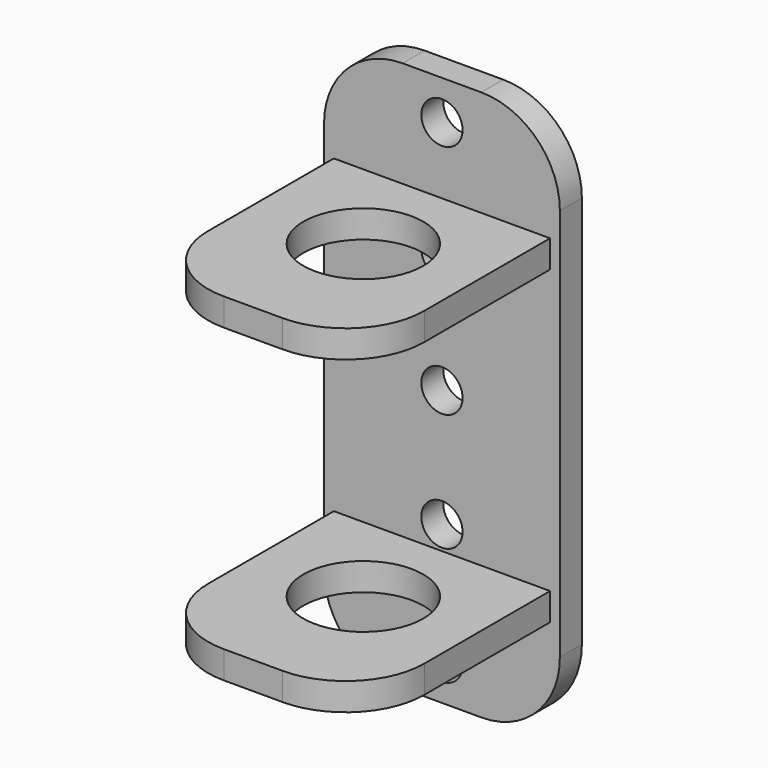
from build123d import *

# Parameters (mm, degrees)
F0_W     = 60
F0_H     = 140
F0_R     = 5.25
F1_DEPTH = 7
F2_W     = 60
F2_H     = 7
F3_DEPTH = 27.5
F4_R     = 15.25
F5_DEPTH = 113.001
F6_R     = 20


with BuildPart() as f1:
    # F0 (on Front) → F1 (new body)
    with BuildSketch(Plane.XZ):
        Rectangle(F0_W, F0_H)
        with Locations((0, -60)):
            Circle(F0_R, mode=Mode.SUBTRACT)
        with Locations((0, -30)):
            Circle(F0_R, mode=Mode.SUBTRACT)
        Circle(F0_R, mode=Mode.SUBTRACT)
        with Locations((0, 30)):
            Circle(F0_R, mode=Mode.SUBTRACT)
        with Locations((0, 60)):
            Circle(F0_R, mode=Mode.SUBTRACT)
    extrude(amount=-F1_DEPTH)

    # F2 (on Right) → F3 (join, symmetric)
    with BuildSketch(Plane.YZ):
        with Locations((-30, 39.5)):
            Rectangle(F2_W, F2_H)
        with Locations((-30, -39.5)):
            Rectangle(F2_W, F2_H)
    extrude(amount=F3_DEPTH, both=True)

    # F4 (on face) → F5 (cut, through all)
    with BuildSketch(Plane.XY.offset(43)):
        with Locations((0, -25)):
            Circle(F4_R)
    extrude(amount=-F5_DEPTH, mode=Mode.SUBTRACT)

    # F6
    f6_edges = [f1.edges().sort_by_distance(p)[0] for p in [
        (-30, 3.5, 70),
        (30, 3.5, 70),
        (-27.5, -60, 39.5),
        (27.5, -60, 39.5),
        (-27.5, -60, -39.5),
        (27.5, -60, -39.5),
        (-30, 3.5, -70),
        (30, 3.5, -70),
    ]]
    fillet(f6_edges, radius=F6_R)


solid = f1.part
